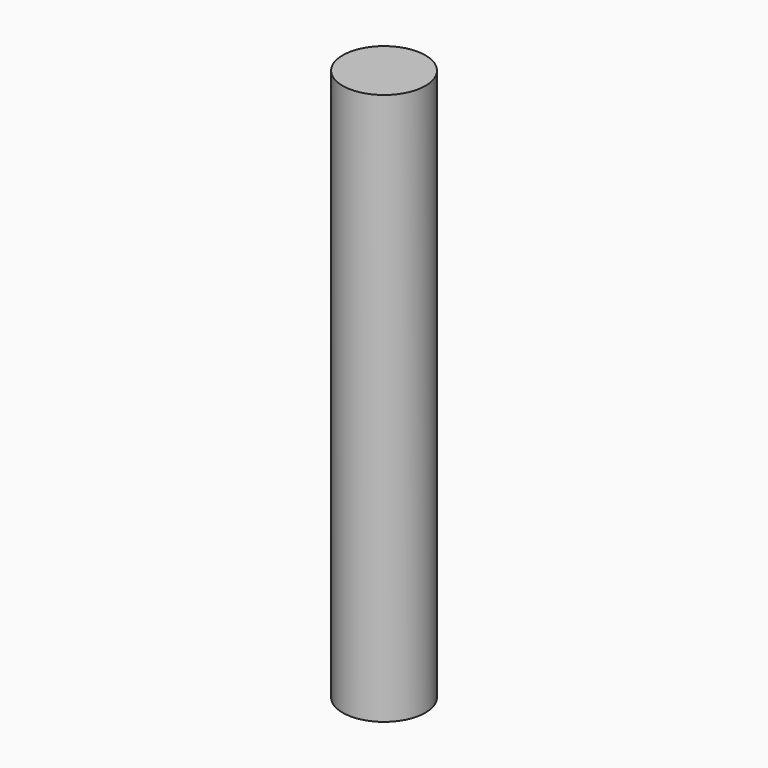
from build123d import *

# Parameters (mm, degrees)
SKETCH_R  = 1.5
PAD_DEPTH = 20


with BuildPart() as part:
    # Sketch → Pad (new body)
    with BuildSketch(Plane.XY):
        Circle(SKETCH_R)
    extrude(amount=PAD_DEPTH)


solid = part.part
